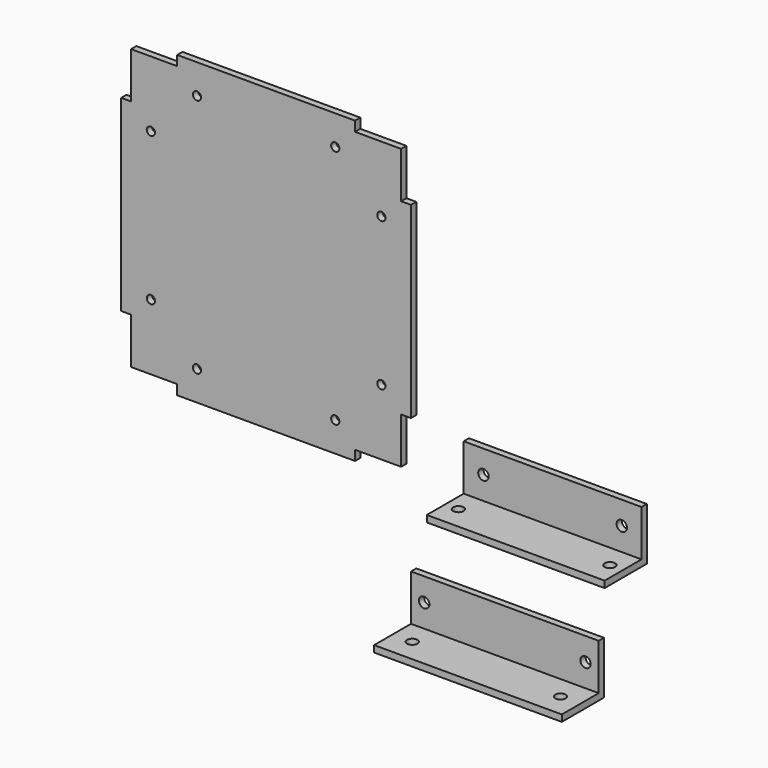
from build123d import *

# Parameters (mm, degrees)
F1_DEPTH         = 6.35
F3_D             = 7.9375
F3_DEPTH         = 20.6756
F3_TIP           = 2.3846655818
F4_W             = 171.45
F4_H             = 50.8
F5_DEPTH         = 50.8
F6_W             = 44.45
F6_H             = 44.45
F7_DEPTH         = 171.45
F10_D            = 10.0838
F10_DEPTH        = 20.6756
F10_TIP          = 3.0294791551
F10_ON_F8_D      = 10.0838
F10_ON_F8_DEPTH  = 20.6756
F10_ON_F8_TIP    = 3.0294791551
F11_W            = 180.975
F11_H            = 50.8
F12_DEPTH        = 50.8
F13_W            = 44.45
F13_H            = 44.45
F14_DEPTH        = 180.975
F17_D            = 10.0838
F17_DEPTH        = 20.6756
F17_TIP          = 3.0294791551
F17_ON_F16_D     = 10.0838
F17_ON_F16_DEPTH = 20.6756
F17_ON_F16_TIP   = 3.0294791551


with BuildPart() as f1:
    # F0 (on Front) → F1 (new body)
    with BuildSketch(Plane.XZ):
        Polygon((-225.425, 0), (-53.975, 0), (-53.975, 9.525), (-9.525, 9.525), (-9.525, 53.975), (0, 53.975), (0, 234.95), (-9.525, 234.95), (-9.525, 279.4), (-53.975, 279.4), (-53.975, 288.925), (-225.425, 288.925), (-225.425, 279.4), (-269.875, 279.4), (-269.875, 234.95), (-279.4, 234.95), (-279.4, 53.975), (-269.875, 53.975), (-269.875, 9.525), (-225.425, 9.525), align=None)
    extrude(amount=F1_DEPTH)

    # F3
    with Locations(Plane.XZ.offset(6.35)):
        with Locations((-28.575, 73.025), (-73.025, 28.575), (-250.825, 73.025), (-206.375, 28.575), (-250.825, 215.9), (-206.375, 260.35), (-73.025, 260.35), (-28.575, 215.9)):
            Hole(F3_D / 2, depth=F3_DEPTH)
            with Locations((0, 0, -(F3_DEPTH + F3_TIP / 2))):  # 118° drill point
                Cone(0, F3_D / 2, F3_TIP, mode=Mode.SUBTRACT)


with BuildPart() as f5:
    # F4 (on Front) → F5 (new body)
    with BuildSketch(Plane.XZ):
        with Locations((136.525, 25.4)):
            Rectangle(F4_W, F4_H)
    extrude(amount=F5_DEPTH)

    # F6 (on face) → F7 (cut)
    with BuildSketch(Plane.YZ.offset(222.25)):
        with Locations((-28.575, 28.575)):
            Rectangle(F6_W, F6_H)
    extrude(amount=-F7_DEPTH, mode=Mode.SUBTRACT)

    # F10
    with Locations(Plane.XZ.offset(6.35)):
        with Locations((69.85, 28.575), (203.2, 28.575)):
            Hole(F10_D / 2, depth=F10_DEPTH)
            with Locations((0, 0, -(F10_DEPTH + F10_TIP / 2))):  # 118° drill point
                Cone(0, F10_D / 2, F10_TIP, mode=Mode.SUBTRACT)

    # F10 on F8
    with Locations(Plane.XY.offset(6.35)):
        with Locations((63.5, -28.575), (209.55, -28.575)):
            Hole(F10_ON_F8_D / 2, depth=F10_ON_F8_DEPTH)
            with Locations((0, 0, -(F10_ON_F8_DEPTH + F10_ON_F8_TIP / 2))):  # 118° drill point
                Cone(0, F10_ON_F8_D / 2, F10_ON_F8_TIP, mode=Mode.SUBTRACT)


with BuildPart() as f12:
    # F11 (on Front) → F12 (new body)
    with BuildSketch(Plane.XZ):
        with Locations((90.4875, -101.6)):
            Rectangle(F11_W, F11_H)
    extrude(amount=F12_DEPTH)

    # F13 (on face) → F14 (cut)
    with BuildSketch(Plane.YZ.offset(180.975)):
        with Locations((-28.575, -98.425)):
            Rectangle(F13_W, F13_H)
    extrude(amount=-F14_DEPTH, mode=Mode.SUBTRACT)

    # F17
    with Locations(Plane.XZ.offset(6.35)):
        with Locations((12.7, -98.425), (168.275, -98.425)):
            Hole(F17_D / 2, depth=F17_DEPTH)
            with Locations((0, 0, -(F17_DEPTH + F17_TIP / 2))):  # 118° drill point
                Cone(0, F17_D / 2, F17_TIP, mode=Mode.SUBTRACT)

    # F17 on F16
    with Locations(Plane.XY.offset(-120.65)):
        with Locations((19.05, -28.575), (161.925, -28.575)):
            Hole(F17_ON_F16_D / 2, depth=F17_ON_F16_DEPTH)
            with Locations((0, 0, -(F17_ON_F16_DEPTH + F17_ON_F16_TIP / 2))):  # 118° drill point
                Cone(0, F17_ON_F16_D / 2, F17_ON_F16_TIP, mode=Mode.SUBTRACT)


solid = Compound([f1.part, f5.part, f12.part])
